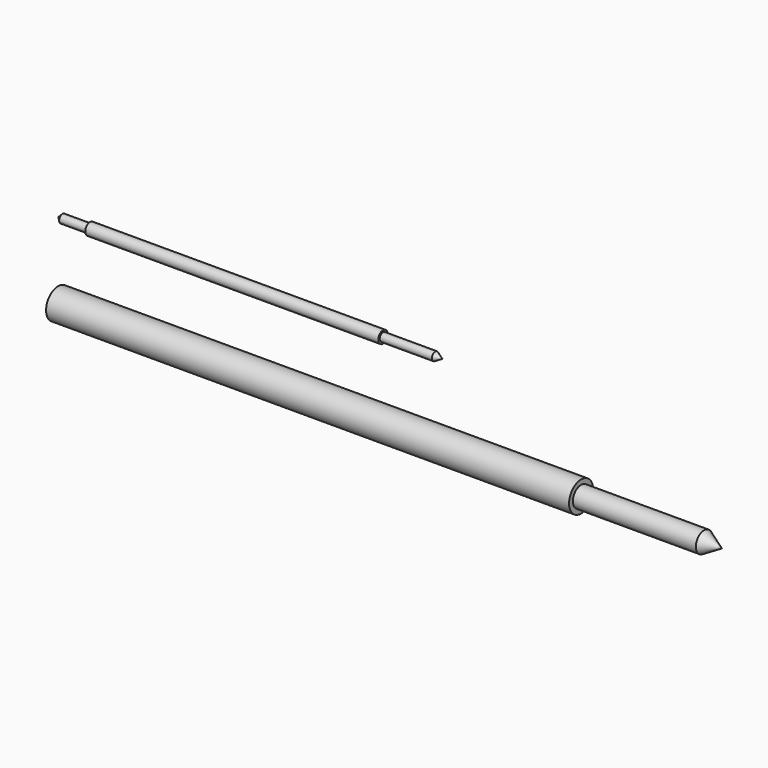
from build123d import *


with BuildPart() as f1:
    # F0 (on Front) → F1 (revolve)
    with BuildSketch(Plane.XZ):
        Polygon((-37.490259, 30.895109), (-37.490259, 31.000109), (-38.185259, 31.000109), (-38.290259, 30.895109), align=None)
        Polygon((-30.090259, 31.045109), (-37.490259, 31.045109), (-37.490259, 31.000109), (-37.490259, 30.895109), (-30.090259, 30.895109), (-30.090259, 31.000109), align=None)
        Polygon((-28.772124, 31.000109), (-30.090259, 31.000109), (-30.090259, 30.895109), (-28.590259, 30.895109), align=None)
    revolve(axis=Axis((-33.790259, 0, 30.895109), (1, 0, 0)))


with BuildPart() as f3:
    # F2 (on Front) → F3 (revolve)
    with BuildSketch(Plane.XZ):
        Polygon((-25.087086, 29.357021), (-38.295086, 29.357021), (-38.295086, 28.976021), (-25.087086, 28.976021), (-25.087086, 29.236021), align=None)
        Polygon((-21.981419, 29.236021), (-25.087086, 29.236021), (-25.087086, 28.976021), (-21.531086, 28.976021), align=None)
    revolve(axis=Axis((-31.691086, 0, 28.976021), (1, 0, 0)))


solid = Compound([f1.part, f3.part])
